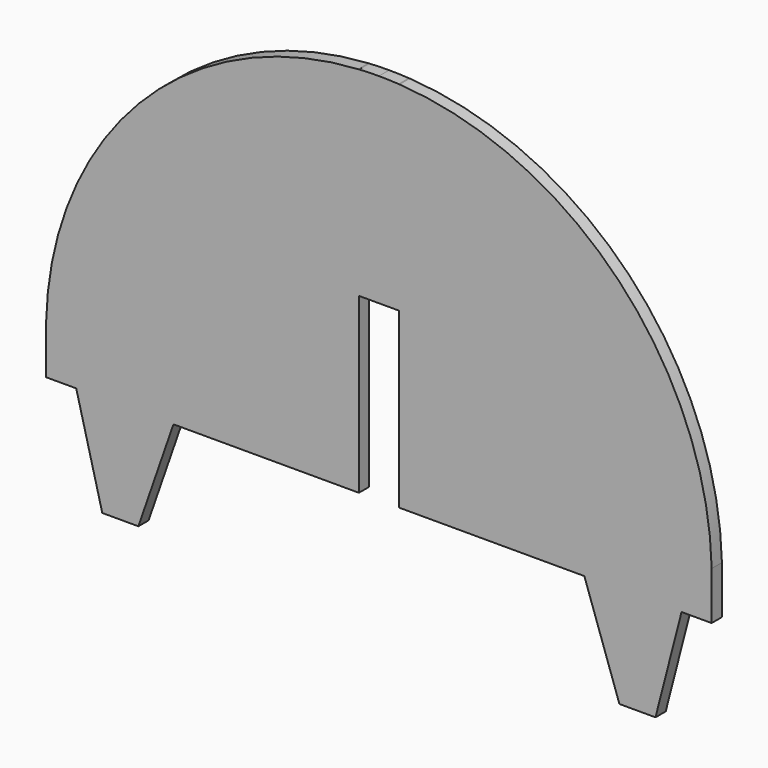
from build123d import *

# Parameters (mm, degrees)
F1_DEPTH = 3


with BuildPart() as f1:
    # F0 (on Front) → F1 (new body)
    with BuildSketch(Plane.XZ):
        with BuildLine():
            Line((4.633374, 76.245005), (4.698028, 76.063357))
            Line((4.698028, 76.063357), (4.698028, 29.420612))
            Line((4.698028, 29.420612), (4.698028, 0))
            Line((4.698028, 0), (4.698028, -11.297515))
            Line((4.698028, -11.297515), (48.249803, -11.297515))
            Line((48.249803, -11.297515), (71.0802, -11.297515))
            Line((71.0802, -11.297515), (78.141153, -11.297515))
            Line((78.141153, -11.297515), (78.141153, 0))
            Line((78.141153, 0), (78.151679, 0))
            ThreePointArc((78.151679, 0), (56.35158, 52.389486), (4.859137, 76.231273))
            ThreePointArc((4.859137, 76.231273), (4.74626, 76.238221), (4.633374, 76.245005))
        make_face()
        with BuildLine():
            Line((4.698028, 29.420612), (4.698028, 76.063357))
            Line((4.698028, 76.063357), (4.633374, 76.245005))
            ThreePointArc((4.633374, 76.245005), (2.317706, 76.348073), (0, 76.382439))
            ThreePointArc((0, 76.382439), (-2.317706, 76.348073), (-4.633374, 76.245005))
            Line((-4.633374, 76.245005), (-4.698028, 76.063357))
            Line((-4.698028, 76.063357), (-4.698028, 29.420612))
            Line((-4.698028, 29.420612), (0, 29.420612))
            Line((0, 29.420612), (4.698028, 29.420612))
        make_face()
        with BuildLine():
            Line((4.630308, 76.253618), (4.633374, 76.245005))
            ThreePointArc((4.633374, 76.245005), (4.74626, 76.238221), (4.859137, 76.231273))
            Line((4.859137, 76.231273), (4.855918, 76.239906))
            ThreePointArc((4.855918, 76.239906), (4.743118, 76.246843), (4.630308, 76.253618))
        make_face()
        with BuildLine():
            Line((4.855918, 76.239906), (4.859137, 76.231273))
            ThreePointArc((4.859137, 76.231273), (56.35158, 52.389486), (78.151679, 0))
            Line((78.151679, 0), (78.160097, 0))
            ThreePointArc((78.160097, 0), (56.356415, 52.396601), (4.855918, 76.239906))
        make_face()
        with BuildLine():
            Line((-4.698028, 0), (-4.698028, 29.420612))
            Line((-4.698028, 29.420612), (-4.698028, 76.063357))
            Line((-4.698028, 76.063357), (-4.633374, 76.245005))
            ThreePointArc((-4.633374, 76.245005), (-4.74626, 76.238221), (-4.859137, 76.231273))
            ThreePointArc((-4.859137, 76.231273), (-56.35158, 52.389486), (-78.151679, 0))
            Line((-78.151679, 0), (-78.141153, 0))
            Line((-78.141153, 0), (-78.141153, -11.297515))
            Line((-78.141153, -11.297515), (-71.0802, -11.297515))
            Line((-71.0802, -11.297515), (-48.249803, -11.297515))
            Line((-48.249803, -11.297515), (-4.698028, -11.297515))
            Line((-4.698028, -11.297515), (-4.698028, 0))
        make_face()
        with BuildLine():
            ThreePointArc((-4.859137, 76.231273), (-4.74626, 76.238221), (-4.633374, 76.245005))
            Line((-4.633374, 76.245005), (-4.630308, 76.253618))
            ThreePointArc((-4.630308, 76.253618), (-4.743118, 76.246843), (-4.855918, 76.239906))
            Line((-4.855918, 76.239906), (-4.859137, 76.231273))
        make_face()
        Polygon((71.0802, -11.297515), (48.249803, -11.297515), (56.487575, -35.069365), (64.960711, -35.069365), align=None)
        with BuildLine():
            ThreePointArc((-78.151679, 0), (-56.35158, 52.389486), (-4.859137, 76.231273))
            Line((-4.859137, 76.231273), (-4.855918, 76.239906))
            ThreePointArc((-4.855918, 76.239906), (-56.356415, 52.396601), (-78.160097, 0))
            Line((-78.160097, 0), (-78.151679, 0))
        make_face()
        Polygon((-56.487575, -35.069365), (-48.249803, -11.297515), (-71.0802, -11.297515), (-64.960711, -35.069365), align=None)
    extrude(amount=F1_DEPTH)


solid = f1.part
